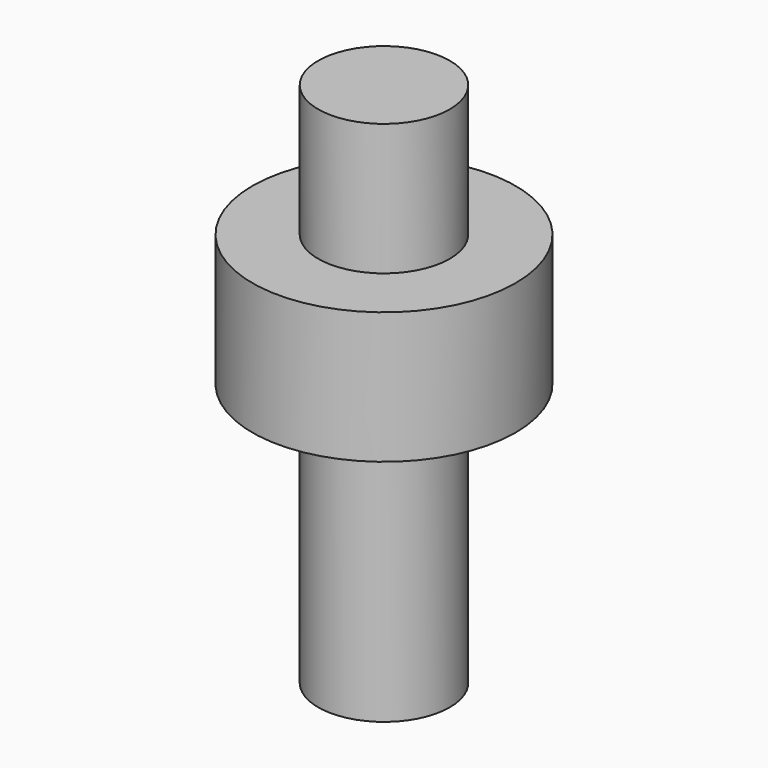
from build123d import *

# Parameters (mm, degrees)
F0_R     = 63.5
F1_DEPTH = 508
F3_R     = 127
F4_DEPTH = 127


with BuildPart() as f1:
    # F0 (on Top) → F1 (new body)
    with BuildSketch(Plane.XY):
        Circle(F0_R)
    extrude(amount=F1_DEPTH)

    # F3 (on offset) → F4 (join)
    with BuildSketch(Plane.XY.offset(381)):
        Circle(F3_R)
    extrude(amount=-F4_DEPTH)


solid = f1.part
